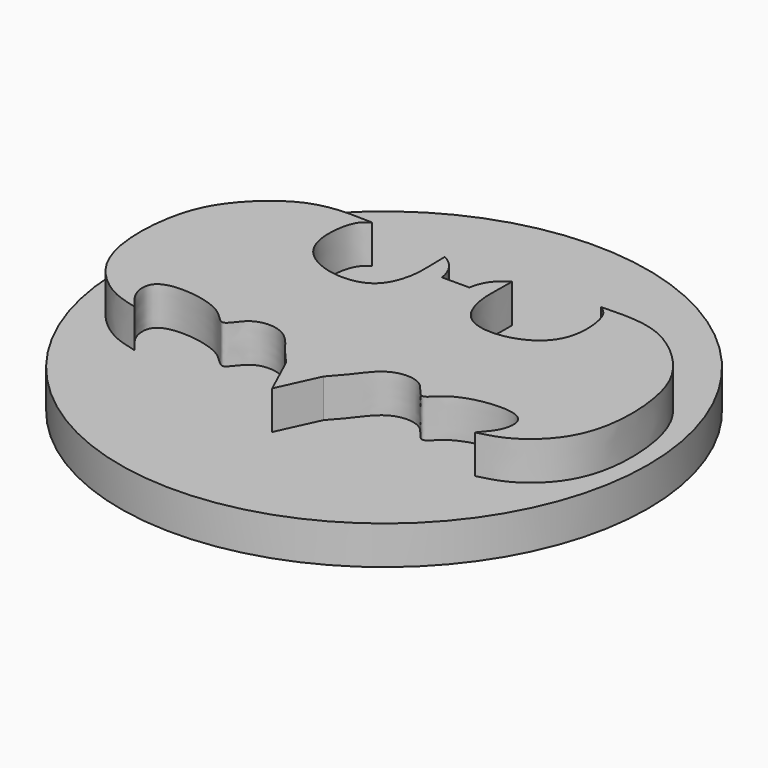
from build123d import *

# Parameters (mm, degrees)
F1_DEPTH = 12.7
F2_R     = 43.6191573148
F3_DEPTH = 6.35


with BuildPart() as f1:
    # F0 (on Top) → F1 (new body)
    with BuildSketch(Plane.XY):
        with BuildLine():
            Line((0, 0), (0, 37.8982871771))
            Line((0, 37.8982871771), (-2.275184961, 37.8982871771))
            ThreePointArc((-2.275184961, 37.8982871771), (-3.3292846535, 40.6644971337), (-5.5562416092, 42.6148064435))
            add(Edge.make_bspline(
                [(-5.5562416092, 42.6148064435), (-5.5703494023, 42.0142906079), (-5.6046526216, 40.5541312384), (-5.2393125388, 36.5954113309), (-6.9424896141, 30.8100461219), (-12.5971795214, 29.3403889147), (-18.6948655551, 31.2430954584), (-21.8441499469, 35.8922942841), (-21.076998542, 42.8397482949), (-19.484435303, 43.8684772866), (-18.8855398446, 44.2553386092)],
                knots=[0, 0, 0, 0, 0.082920529, 0.2016219726, 0.3411436581, 0.4763827565, 0.6222008099, 0.7595052437, 0.9095601268, 1, 1, 1, 1], degree=3))
            add(Edge.make_bspline(
                [(-18.8855398446, 44.2553386092), (-20.6560426877, 44.3237199963), (-24.33100703, 44.4656565993), (-30.5408431936, 43.2410311856), (-38.1067126016, 36.3732548524), (-40.566015012, 28.6181305798), (-40.8792325724, 20.0231651092), (-38.5999285071, 12.8430202709), (-33.0856876554, 7.9563134123), (-29.6765484701, 7.1142909532), (-28.113514185, 6.7282374948)],
                knots=[0, 0, 0, 0, 0.1086472767, 0.2255149543, 0.3722485622, 0.5062658434, 0.642720627, 0.7706640779, 0.894853249, 1, 1, 1, 1], degree=3))
            add(Edge.make_bspline(
                [(-28.113514185, 6.7282374948), (-29.0246689047, 7.7597666145), (-30.7375643135, 9.6989559255), (-30.7756235682, 13.7303881075), (-25.8604407658, 14.7900899125), (-18.7823382808, 13.149739601), (-16.3501787334, 9.1177684328), (-14.3329084621, 13.866950264), (-8.5187134641, 13.8232988977), (-5.6398384057, 9.5322456261), (-3.9052846126, 7.6207055193), (-3.0954487156, 6.7282374948)],
                knots=[0, 0, 0, 0, 0.1075326967, 0.2021525636, 0.3136658959, 0.4609002606, 0.5554153026, 0.6559470898, 0.775552028, 0.8952087704, 1, 1, 1, 1], degree=3))
            Line((-3.0954487156, 6.7282374948), (0, 0))
        make_face()
        with BuildLine():
            Line((2.275184961, 37.8982871771), (0, 37.8982871771))
            Line((0, 37.8982871771), (0, 0))
            Line((0, 0), (3.0954487156, 6.7282374948))
            add(Edge.make_bspline(
                [(28.113514185, 6.7282374948), (29.0246689047, 7.7597666145), (30.7375643135, 9.6989559255), (30.7756235682, 13.7303881075), (25.8604407658, 14.7900899125), (18.7823382808, 13.149739601), (16.3501787334, 9.1177684328), (14.3329084621, 13.866950264), (8.5187134641, 13.8232988977), (5.6398384057, 9.5322456261), (3.9052846126, 7.6207055193), (3.0954487156, 6.7282374948)],
                knots=[0, 0, 0, 0, 0.1075326967, 0.2021525636, 0.3136658959, 0.4609002606, 0.5554153026, 0.6559470898, 0.775552028, 0.8952087704, 1, 1, 1, 1], degree=3))
            add(Edge.make_bspline(
                [(18.8855398446, 44.2553386092), (20.6560426877, 44.3237199963), (24.33100703, 44.4656565993), (30.5408431936, 43.2410311856), (38.1067126016, 36.3732548524), (40.566015012, 28.6181305798), (40.8792325724, 20.0231651092), (38.5999285071, 12.8430202709), (33.0856876554, 7.9563134123), (29.6765484701, 7.1142909532), (28.113514185, 6.7282374948)],
                knots=[0, 0, 0, 0, 0.1086472767, 0.2255149543, 0.3722485622, 0.5062658434, 0.642720627, 0.7706640779, 0.894853249, 1, 1, 1, 1], degree=3))
            add(Edge.make_bspline(
                [(5.5562416092, 42.6148064435), (5.5703494023, 42.0142906079), (5.6046526216, 40.5541312384), (5.2393125388, 36.5954113309), (6.9424896141, 30.8100461219), (12.5971795214, 29.3403889147), (18.6948655551, 31.2430954584), (21.8441499469, 35.8922942841), (21.076998542, 42.8397482949), (19.484435303, 43.8684772866), (18.8855398446, 44.2553386092)],
                knots=[0, 0, 0, 0, 0.082920529, 0.2016219726, 0.3411436581, 0.4763827565, 0.6222008099, 0.7595052437, 0.9095601268, 1, 1, 1, 1], degree=3))
            ThreePointArc((5.5562416092, 42.6148064435), (3.3292846535, 40.6644971337), (2.275184961, 37.8982871771))
        make_face()
    extrude(amount=F1_DEPTH)

    # F2 (on Top) → F3 (join)
    with BuildSketch(Plane.XY):
        with Locations((0, 23.1057424098)):
            Circle(F2_R)
    extrude(amount=F3_DEPTH)


solid = f1.part
